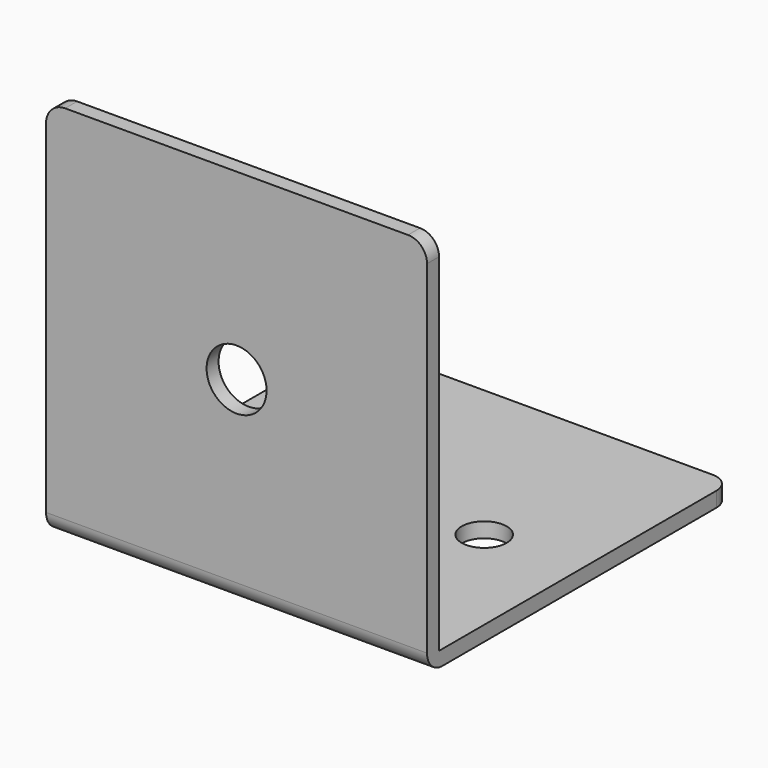
from build123d import *

# Parameters (mm, degrees)
F0_W     = 25.4
F0_H     = 24.4
F0_R     = 2
F1_DEPTH = 1
F2_R     = 1.27
F3_W     = 25.4
F3_H     = 24.4
F3_R     = 1.5
F3_H_2   = 1
F4_DEPTH = 1
F5_R     = 1.27


with BuildPart() as f1:
    # F0 (on Front) → F1 (new body)
    with BuildSketch(Plane.XZ):
        Rectangle(F0_W, F0_H)
        Circle(F0_R, mode=Mode.SUBTRACT)
    extrude(amount=F1_DEPTH)

    # F2
    f2_edges = [f1.edges().sort_by_distance(p)[0] for p in [
        (12.7, -0.5, 12.2),
        (-12.7, -0.5, 12.2),
    ]]
    fillet(f2_edges, radius=F2_R)

    # F3 (on face) → F4 (join)
    with BuildSketch(Plane(origin=(0, 0, -12.2), x_dir=(1, 0, 0), z_dir=(0, 0, -1))):
        with Locations((0, -12.2)):
            Rectangle(F3_W, F3_H)
        with Locations((-6.35, -11.7)):
            Circle(F3_R, mode=Mode.SUBTRACT)
        with Locations((6.35, -11.7)):
            Circle(F3_R, mode=Mode.SUBTRACT)
        with Locations((0, 0.5)):
            Rectangle(F3_W, F3_H_2)
    extrude(amount=F4_DEPTH)

    # F5
    f5_edges = [f1.edges().sort_by_distance(p)[0] for p in [
        (0, -1, -13.2),
        (-12.7, 24.4, -12.7),
        (12.7, 24.4, -12.7),
    ]]
    fillet(f5_edges, radius=F5_R)


solid = f1.part
